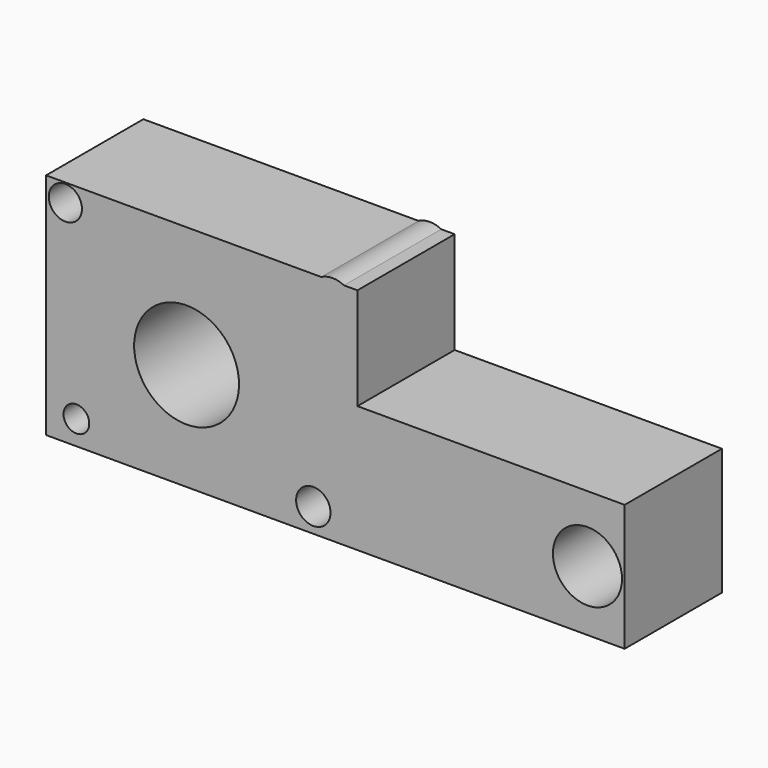
from build123d import *

# Parameters (mm, degrees)
F0_R     = 2.688329696
F0_R_2   = 3.5975746904
F0_R_3   = 10.9593172869
F0_R_4   = 7.2181289024
F0_R_5   = 3.465638667
F1_DEPTH = 25.4


with BuildPart() as f1:
    # F0 (on Front) → F1 (new body)
    with BuildSketch(Plane.XZ):
        with BuildLine():
            Line((-15.4684683464, 42.7391529083), (-72.9587599635, 42.7391529083))
            Line((-72.9587599635, 42.7391529083), (-72.9587599635, -5.0366008654))
            Line((-72.9587599635, -5.0366008654), (47.9196570814, -5.0366008654))
            Line((47.9196570814, -5.0366008654), (47.9196570814, 21.4415285736))
            Line((47.9196570814, 21.4415285736), (-7.9146595672, 21.4415285736))
            Line((-7.9146595672, 21.4415285736), (-7.9146595672, 38.1342619658))
            ThreePointArc((-7.9146595672, 38.1342619658), (-15.7917045291, 33.7108852108), (-15.4684683464, 42.7391529083))
        make_face()
        with Locations((-66.6270330548, 0)):
            Circle(F0_R, mode=Mode.SUBTRACT)
        with Locations((-17.124440521, 0)):
            Circle(F0_R_2, mode=Mode.SUBTRACT)
        with Locations((-43.6025708914, 17.4122489989)):
            Circle(F0_R_3, mode=Mode.SUBTRACT)
        with Locations((40.1489026845, 7.6268524863)):
            Circle(F0_R_4, mode=Mode.SUBTRACT)
        with Locations((-68.9294785261, 38.9976799488)):
            Circle(F0_R_5, mode=Mode.SUBTRACT)
        with BuildLine():
            ThreePointArc((-10.7218554087, 42.7391529083), (-13.0951618776, 43.3147642761), (-15.4684683464, 42.7391529083))
            Line((-15.4684683464, 42.7391529083), (-10.7218554087, 42.7391529083))
        make_face()
        with BuildLine():
            Line((-10.7218554087, 42.7391529083), (-15.4684683464, 42.7391529083))
            ThreePointArc((-15.4684683464, 42.7391529083), (-15.7917045291, 33.7108852108), (-7.9146595672, 38.1342619658))
            ThreePointArc((-7.9146595672, 38.1342619658), (-8.6717851226, 40.8308046173), (-10.7218554087, 42.7391529083))
        make_face()
        with BuildLine():
            Line((-7.9146595672, 42.7391529083), (-10.7218554087, 42.7391529083))
            ThreePointArc((-10.7218554087, 42.7391529083), (-8.6717851226, 40.8308046173), (-7.9146595672, 38.1342619658))
            Line((-7.9146595672, 38.1342619658), (-7.9146595672, 42.7391529083))
        make_face()
    extrude(amount=F1_DEPTH)


solid = f1.part
